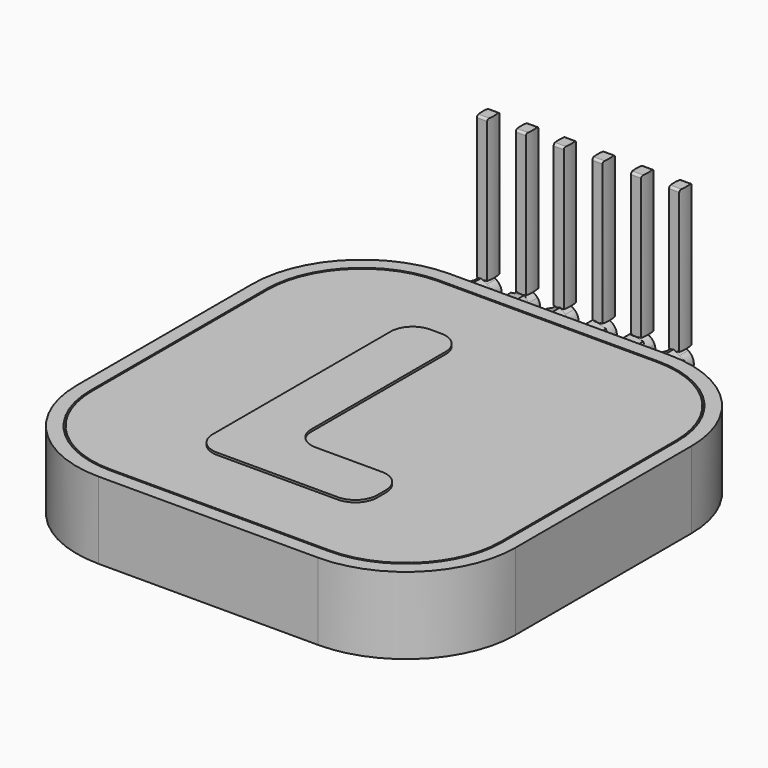
from build123d import *

# Parameters (mm, degrees)
F0_W      = 50.8
F0_H      = 50.8
F1_DEPTH  = 8.89
F2_R      = 12.7
F4_DEPTH  = 2.54
F6_DEPTH  = 0.254
F7_R      = 2.54
F9_DEPTH  = 2.54
F16_DEPTH = 1.27
F22_DEPTH = 1.143
F24_W     = 0.6395624951
F24_H     = 1.1226851493
F25_DEPTH = 2.032
F28_DEPTH = 16.51
F29_R     = 0.254
F29_2_R   = 0.254
F29_3_R   = 0.254
F29_4_R   = 0.254
F29_5_R   = 0.254
F29_6_R   = 0.254


with BuildPart() as f1:
    # F0 (on Top) → F1 (new body)
    with BuildSketch(Plane.XY):
        Rectangle(F0_W, F0_H)
    extrude(amount=F1_DEPTH)

    # F2
    f2_edges = [f1.edges().sort_by_distance(p)[0] for p in [
        (-25.4, -25.4, 4.445),
        (-25.4, 25.4, 4.445),
        (25.4, -25.4, 4.445),
        (25.4, 25.4, 4.445),
    ]]
    fillet(f2_edges, radius=F2_R)

    # F3 (on face) → F4 (cut)
    with BuildSketch(Plane.XY.offset(8.89)):
        with BuildLine():
            Line((12.7, 23.8125), (-12.7, 23.8125))
            ThreePointArc((-12.7, 23.8125), (-20.5577241059, 20.5577241059), (-23.8125, 12.7))
            Line((-23.8125, 12.7), (-23.8125, -12.7))
            ThreePointArc((-23.8125, -12.7), (-20.5577241059, -20.5577241059), (-12.7, -23.8125))
            Line((-12.7, -23.8125), (12.7, -23.8125))
            ThreePointArc((12.7, -23.8125), (20.5577241059, -20.5577241059), (23.8125, -12.7))
            Line((23.8125, -12.7), (23.8125, 12.7))
            ThreePointArc((23.8125, 12.7), (20.5577241059, 20.5577241059), (12.7, 23.8125))
        make_face()
        with BuildLine():
            ThreePointArc((-23.622, 12.7), (-20.4230202641, 20.4230202641), (-12.7, 23.622))
            Line((-12.7, 23.622), (12.7, 23.622))
            ThreePointArc((12.7, 23.622), (20.4230202641, 20.4230202641), (23.622, 12.7))
            Line((23.622, 12.7), (23.622, -12.7))
            ThreePointArc((23.622, -12.7), (20.4230202641, -20.4230202641), (12.7, -23.622))
            Line((12.7, -23.622), (-12.7, -23.622))
            ThreePointArc((-12.7, -23.622), (-20.4230202641, -20.4230202641), (-23.622, -12.7))
            Line((-23.622, -12.7), (-23.622, 12.7))
        make_face(mode=Mode.SUBTRACT)
    extrude(amount=-F4_DEPTH, mode=Mode.SUBTRACT)

    # F8 (on face) → F9 (join)
    with BuildSketch(Plane(origin=(0, 25.4, 0), x_dir=(-1, 0, 0), z_dir=(0, 1, 0))):
        Polygon((-11.0568755099, 4.7634748139), (-9.71071664, 5.6049096285), (-9.7663411302, 7.1914348146), (-11.1681244901, 7.9365251861), (-12.51428336, 7.0950903715), (-12.4586588698, 5.5085651854), align=None)
        Polygon((-8.2379135557, 6.1177124322), (-7.2515398431, 4.8738381824), (-5.6811262874, 5.1061257503), (-5.0970864443, 6.5822875678), (-6.0834601569, 7.8261618176), (-7.6538737126, 7.5938742497), align=None)
        Polygon((-3.7585345081, 5.9490583085), (-2.6432915637, 4.8192842492), (-1.1072570557, 5.2202259407), (-0.6864654919, 6.7509416915), (-1.8017084363, 7.8807157508), (-3.3377429443, 7.4797740593), align=None)
        Polygon((0.9898807473, 5.3495970672), (2.4725647275, 4.7823189476), (3.7051839802, 5.7827218804), (3.4551192527, 7.3504029328), (1.9724352725, 7.9176810524), (0.7398160198, 6.9172781196), align=None)
        Polygon((5.1002350336, 6.6026594054), (5.6650580532, 5.1190384274), (7.2323230196, 4.8663790219), (8.2347649664, 6.0973405946), (7.6699419468, 7.5809615726), (6.1026769804, 7.8336209781), align=None)
        Polygon((9.7376846715, 5.55625), (11.1125, 4.7625), (12.4873153285, 5.55625), (12.4873153285, 7.14375), (11.1125, 7.9375), (9.7376846715, 7.14375), align=None)
    extrude(amount=F9_DEPTH)

    # F10 (on face) + F11 (on face) + F12 (on face) + F13 (on face) + F14 (on face) + F15 (on face) → F16 (join)
    with BuildSketch(Plane(origin=(0, 27.94, 0), x_dir=(-1, 0, 0), z_dir=(0, 1, 0))):
        with BuildLine():
            ThreePointArc((-10.3837961672, 5.1841921635), (-9.9100129134, 5.6835602097), (-9.7376846715, 6.35))
            ThreePointArc((-9.7376846715, 6.35), (-9.7378957424, 6.3740898812), (-9.7385288902, 6.3981723656))
            ThreePointArc((-9.7385288902, 6.3981723656), (-9.9466921999, 7.0787038909), (-10.4672326118, 7.5639798949))
            ThreePointArc((-10.4672326118, 7.5639798949), (-11.160672127, 7.7239711182), (-11.841203955, 7.5158077601))
            ThreePointArc((-11.841203955, 7.5158077601), (-12.3264800098, 6.995267172), (-12.4864711147, 6.3018277735))
            ThreePointArc((-12.4864711147, 6.3018277735), (-12.2783078523, 5.6212961926), (-11.7577674393, 5.1360201323))
            ThreePointArc((-11.7577674393, 5.1360201323), (-11.064327974, 4.9760288782), (-10.3837961672, 5.1841921635))
        make_face()
    with BuildSketch(Plane(origin=(0, 27.94, 0), x_dir=(-1, 0, 0), z_dir=(0, 1, 0))):
        with BuildLine():
            ThreePointArc((-5.3891063156, 5.8442067861), (-5.317005198, 6.0925490781), (-5.2926846715, 6.35))
            ThreePointArc((-5.2926846715, 6.35), (-5.3692116904, 6.8022882406), (-5.5902732251, 7.2042245975))
            ThreePointArc((-5.5902732251, 7.2042245975), (-6.1617065984, 7.6283936101), (-6.8686669258, 7.710018035))
            ThreePointArc((-6.8686669258, 7.710018035), (-7.521724677, 7.4272267118), (-7.9458936227, 6.8557933698))
            ThreePointArc((-7.9458936227, 6.8557933698), (-8.0275180372, 6.1488330889), (-7.7447267098, 5.4957753205))
            ThreePointArc((-7.7447267098, 5.4957753205), (-7.1732933258, 5.0716063599), (-6.4663330164, 4.9899819736))
            ThreePointArc((-6.4663330164, 4.9899819736), (-5.8132752344, 5.2727733584), (-5.3891063156, 5.8442067861))
        make_face()
    with BuildSketch(Plane(origin=(0, 27.94, 0), x_dir=(-1, 0, 0), z_dir=(0, 1, 0))):
        with BuildLine():
            ThreePointArc((-0.8968613117, 5.9855836783), (-0.8600342984, 6.1661402726), (-0.8476846715, 6.35))
            ThreePointArc((-0.8476846715, 6.35), (-0.9506402332, 6.8720056716), (-1.2440868871, 7.3158286432))
            ThreePointArc((-1.2440868871, 7.3158286432), (-1.8580837513, 7.6756387084), (-2.5697256663, 7.6802449114))
            ThreePointArc((-2.5697256663, 7.6802449114), (-3.1883287054, 7.3284130515), (-3.5481387211, 6.7144162026))
            ThreePointArc((-3.5481387211, 6.7144162026), (-3.5527449083, 6.0027743219), (-3.20091304, 5.384171283))
            ThreePointArc((-3.20091304, 5.384171283), (-2.5869161364, 5.0243612607), (-1.8752742087, 5.0197551213))
            ThreePointArc((-1.8752742087, 5.0197551213), (-1.2566712925, 5.3715869506), (-0.8968613117, 5.9855836783))
        make_face()
    with BuildSketch(Plane(origin=(0, 27.94, 0), x_dir=(-1, 0, 0), z_dir=(0, 1, 0))):
        with BuildLine():
            ThreePointArc((3.0888744597, 5.2825204999), (3.4637135342, 5.7588095484), (3.5973153285, 6.35))
            ThreePointArc((3.5973153285, 6.35), (3.5930176889, 6.4586206789), (3.5801516387, 6.5665622666))
            ThreePointArc((3.5801516387, 6.5665622666), (3.2899796499, 7.2163742751), (2.7137773196, 7.6340419708))
            ThreePointArc((2.7137773196, 7.6340419708), (2.005937624, 7.7076516213), (1.3561256469, 7.4174795866))
            ThreePointArc((1.3561256469, 7.4174795866), (0.9384580083, 6.8412772648), (0.864848383, 6.1334375972))
            ThreePointArc((0.864848383, 6.1334375972), (1.1550204138, 5.4836256465), (1.7312227403, 5.0659580063))
            ThreePointArc((1.7312227403, 5.0659580063), (2.4390624755, 4.9923483946), (3.0888744597, 5.2825204999))
        make_face()
    with BuildSketch(Plane(origin=(0, 27.94, 0), x_dir=(-1, 0, 0), z_dir=(0, 1, 0))):
        with BuildLine():
            ThreePointArc((7.7335439008, 5.481859695), (7.9628244156, 5.8892920166), (8.0423153285, 6.35))
            ThreePointArc((8.0423153285, 6.35), (8.0196378169, 6.5986775256), (7.9523534108, 6.8391512039))
            ThreePointArc((7.9523534108, 6.8391512039), (7.5356401364, 7.416044038), (6.8863094498, 7.7072912776))
            ThreePointArc((6.8863094498, 7.7072912776), (6.1783489173, 7.6348534569), (5.601456017, 7.2181402041))
            ThreePointArc((5.601456017, 7.2181402041), (5.3102087279, 6.5688094837), (5.3826465346, 5.8608489396))
            ThreePointArc((5.3826465346, 5.8608489396), (5.7993597953, 5.2839560176), (6.448690528, 4.992708726))
            ThreePointArc((6.448690528, 4.992708726), (7.1566510114, 5.0651465159), (7.7335439008, 5.481859695))
        make_face()
    with BuildSketch(Plane(origin=(0, 27.94, 0), x_dir=(-1, 0, 0), z_dir=(0, 1, 0))):
        with BuildLine():
            ThreePointArc((11.7999077402, 5.1593750439), (12.3031250219, 5.6625923737), (12.4873153285, 6.35))
            ThreePointArc((12.4873153285, 6.35), (12.3031250219, 7.0374076263), (11.7999077402, 7.5406249561))
            ThreePointArc((11.7999077402, 7.5406249561), (11.1125000482, 7.7248153285), (10.4250923432, 7.5406250043))
            ThreePointArc((10.4250923432, 7.5406250043), (9.9218750021, 7.037407668), (9.7376846715, 6.35))
            ThreePointArc((9.7376846715, 6.35), (9.9218749991, 5.6625923373), (10.4250923326, 5.1593750018))
            ThreePointArc((10.4250923326, 5.1593750018), (11.112500042, 4.9751846715), (11.7999077402, 5.1593750439))
        make_face()
    extrude(amount=F16_DEPTH)

    # F17 (on face) + F18 (on face) + F19 (on face) + F20 (on face) + F21 (on face) → F22 (cut)
    with BuildSketch(Plane(origin=(0, 29.21, 0), x_dir=(-1, 0, 0), z_dir=(0, 1, 0))):
        with BuildLine():
            ThreePointArc((-10.7684358954, 7.6810661439), (-11.1034970117, 7.7247858501), (-11.4391019765, 7.6854580998))
            Line((-11.4391019765, 7.6854580998), (-11.4391019765, 5.6703155724))
            Line((-11.4391019765, 5.6703155724), (-10.7684358954, 5.6703155724))
            Line((-10.7684358954, 5.6703155724), (-10.7684358954, 7.6810661439))
        make_face()
    with BuildSketch(Plane(origin=(0, 29.21, 0), x_dir=(-1, 0, 0), z_dir=(0, 1, 0))):
        with BuildLine():
            ThreePointArc((-6.3427600812, 7.6859121126), (-6.6784230458, 7.7247719355), (-7.0134261623, 7.6805834351))
            Line((-7.0134261623, 7.6805834351), (-7.0134261623, 5.6686857715))
            Line((-7.0134261623, 5.6686857715), (-6.3427600812, 5.6686857715))
            Line((-6.3427600812, 5.6686857715), (-6.3427600812, 7.679436343))
            Line((-6.3427600812, 7.679436343), (-6.3427600812, 7.6859121126))
        make_face()
    with BuildSketch(Plane(origin=(0, 29.21, 0), x_dir=(-1, 0, 0), z_dir=(0, 1, 0))):
        with BuildLine():
            ThreePointArc((-1.8947532203, 7.6851776046), (-2.2303225282, 7.7247930737), (-2.5654193014, 7.6813615363))
            Line((-2.5654193014, 7.6813615363), (-2.5654193014, 5.690001417))
            Line((-2.5654193014, 5.690001417), (-1.8947532203, 5.690001417))
            Line((-1.8947532203, 5.690001417), (-1.8947532203, 7.6851776046))
        make_face()
    with BuildSketch(Plane(origin=(0, 29.21, 0), x_dir=(-1, 0, 0), z_dir=(0, 1, 0))):
        with BuildLine():
            ThreePointArc((2.5899198104, 7.6748093714), (2.2555866565, 7.7244171349), (1.9192537293, 7.6909544686))
            Line((1.9192537293, 7.6909544686), (1.9192537293, 5.7194768451))
            Line((1.9192537293, 5.7194768451), (2.5899198104, 5.7194768451))
            Line((2.5899198104, 5.7194768451), (2.5899198104, 7.6748093714))
        make_face()
    with BuildSketch(Plane(origin=(0, 29.21, 0), x_dir=(-1, 0, 0), z_dir=(0, 1, 0))):
        with BuildLine():
            ThreePointArc((6.9499148254, 7.6954958394), (6.6129310262, 7.7237319297), (6.2792487442, 7.6688548631))
            Line((6.2792487442, 7.6688548631), (6.2792487442, 5.7084094733))
            Line((6.2792487442, 5.7084094733), (6.9499148254, 5.7084094733))
            Line((6.9499148254, 5.7084094733), (6.9499148254, 7.6954958394))
        make_face()
        Polygon((10.784923099, 8.0197686466), (10.784923099, 7.7235520007), (10.784923099, 5.7084094733), (11.4555891801, 5.7084094733), (11.4555891801, 7.7191600448), (11.4555891801, 8.0197686466), align=None)
    extrude(amount=-F22_DEPTH, mode=Mode.SUBTRACT)


with BuildPart() as f6:
    # F5 (on face) → F6 (new body)
    with BuildSketch(Plane.XY.offset(8.89)):
        Polygon((-3.175, 15.4178), (-9.525, 15.4178), (-9.525, -15.4178), (9.525, -15.4178), (9.525, -9.0678), (-3.175, -9.0678), align=None)
    extrude(amount=F6_DEPTH)

    # F7
    f7_edges = [f6.edges().sort_by_distance(p)[0] for p in [
        (-9.525, -15.4178, 9.017),
        (9.525, -15.4178, 9.017),
        (9.525, -9.0678, 9.017),
        (-3.175, -9.0678, 9.017),
        (-3.175, 15.4178, 9.017),
        (-9.525, 15.4178, 9.017),
    ]]
    fillet(f7_edges, radius=F7_R)


with BuildPart() as f25:
    # F24 (on offset) → F25 (new body)
    with BuildSketch(Plane.XY.offset(5.7338155724)):
        with Locations((11.1026200466, 28.6440821365)):
            Rectangle(F24_W, F24_H)
    extrude(amount=F25_DEPTH)


with BuildPart() as f25b:
    # F24 (on offset) → F25, piece 2 (new body)
    with BuildSketch(Plane.XY.offset(5.7338155724)):
        with Locations((6.6755441949, 28.6440821365)):
            Rectangle(F24_W, F24_H)
    extrude(amount=F25_DEPTH)


with BuildPart() as f25c:
    # F24 (on offset) → F25, piece 3 (new body)
    with BuildSketch(Plane.XY.offset(5.7338155724)):
        with Locations((2.2284153383, 28.6440821365)):
            Rectangle(F24_W, F24_H)
    extrude(amount=F25_DEPTH)


with BuildPart() as f25d:
    # F24 (on offset) → F25, piece 4 (new body)
    with BuildSketch(Plane.XY.offset(5.7338155724)):
        with Locations((-2.2553561721, 28.6440821365)):
            Rectangle(F24_W, F24_H)
    extrude(amount=F25_DEPTH)


with BuildPart() as f25e:
    # F24 (on offset) → F25, piece 5 (new body)
    with BuildSketch(Plane.XY.offset(5.7338155724)):
        with Locations((-6.6138003021, 28.6440821365)):
            Rectangle(F24_W, F24_H)
    extrude(amount=F25_DEPTH)


with BuildPart() as f25f:
    # F24 (on offset) → F25, piece 6 (new body)
    with BuildSketch(Plane.XY.offset(5.7338155724)):
        with Locations((-11.1170834862, 28.6440821365)):
            Rectangle(F24_W, F24_H)
    extrude(amount=F25_DEPTH)


with BuildPart() as f28:
    # F27 (on offset) → F28 (new body)
    with BuildSketch(Plane.XY.offset(7.7658155724)):
        with BuildLine():
            ThreePointArc((10.5258245021, 29.8739075661), (10.4288651481, 28.9803827181), (10.5258245021, 28.0868578702))
            Line((10.5258245021, 28.0868578702), (11.6961849853, 28.0868578702))
            ThreePointArc((11.6961849853, 28.0868578702), (11.7931443394, 28.9803827181), (11.6961849853, 29.8739075661))
            Line((11.6961849853, 29.8739075661), (10.5258245021, 29.8739075661))
        make_face()
    extrude(amount=F28_DEPTH)

    # F29#6
    f29_6_edges = [f28.edges().sort_by_distance(p)[0] for p in [
        (11.111005, 29.873908, 24.275816),
        (11.111005, 28.086858, 24.275816),
    ]]
    fillet(f29_6_edges, radius=F29_6_R)


with BuildPart() as f28b:
    # F27 (on offset) → F28, piece 2 (new body)
    with BuildSketch(Plane.XY.offset(7.7658155724)):
        with BuildLine():
            ThreePointArc((6.1121954382, 29.8739075661), (6.0152360841, 28.9803827181), (6.1121954382, 28.0868578702))
            Line((6.1121954382, 28.0868578702), (7.2825559214, 28.0868578702))
            ThreePointArc((7.2825559214, 28.0868578702), (7.3795152754, 28.9803827181), (7.2825559214, 29.8739075661))
            Line((7.2825559214, 29.8739075661), (6.1121954382, 29.8739075661))
        make_face()
    extrude(amount=F28_DEPTH)

    # F29#5
    f29_5_edges = [f28b.edges().sort_by_distance(p)[0] for p in [
        (6.697376, 29.873908, 24.275816),
        (6.697376, 28.086858, 24.275816),
    ]]
    fillet(f29_5_edges, radius=F29_5_R)


with BuildPart() as f28c:
    # F27 (on offset) → F28, piece 3 (new body)
    with BuildSketch(Plane.XY.offset(7.7658155724)):
        with BuildLine():
            ThreePointArc((1.6438810885, 29.8739075661), (1.5469217345, 28.9803827181), (1.6438810885, 28.0868578702))
            Line((1.6438810885, 28.0868578702), (2.8142415717, 28.0868578702))
            ThreePointArc((2.8142415717, 28.0868578702), (2.9112009258, 28.9803827181), (2.8142415717, 29.8739075661))
            Line((2.8142415717, 29.8739075661), (1.6438810885, 29.8739075661))
        make_face()
    extrude(amount=F28_DEPTH)

    # F29#4
    f29_4_edges = [f28c.edges().sort_by_distance(p)[0] for p in [
        (2.229061, 28.086858, 24.275816),
        (2.229061, 29.873908, 24.275816),
    ]]
    fillet(f29_4_edges, radius=F29_4_R)


with BuildPart() as f28d:
    # F27 (on offset) → F28, piece 4 (new body)
    with BuildSketch(Plane.XY.offset(7.7658155724)):
        with BuildLine():
            ThreePointArc((-2.8380200933, 29.8739066347), (-2.9349794474, 28.9803817868), (-2.8380200933, 28.0868569389))
            Line((-2.8380200933, 28.0868569389), (-1.6676596101, 28.0868569389))
            ThreePointArc((-1.6676596101, 28.0868569389), (-1.5707002561, 28.9803817868), (-1.6676596101, 29.8739066347))
            Line((-1.6676596101, 29.8739066347), (-2.8380200933, 29.8739066347))
        make_face()
    extrude(amount=F28_DEPTH)

    # F29#3
    f29_3_edges = [f28d.edges().sort_by_distance(p)[0] for p in [
        (-2.25284, 28.086857, 24.275816),
        (-2.25284, 29.873907, 24.275816),
    ]]
    fillet(f29_3_edges, radius=F29_3_R)


with BuildPart() as f28e:
    # F27 (on offset) → F28, piece 5 (new body)
    with BuildSketch(Plane.XY.offset(7.7658155724)):
        with BuildLine():
            ThreePointArc((-7.2110661972, 29.8739066347), (-7.3080255512, 28.9803817868), (-7.2110661972, 28.0868569389))
            Line((-7.2110661972, 28.0868569389), (-6.040705714, 28.0868569389))
            ThreePointArc((-6.040705714, 28.0868569389), (-5.94374636, 28.9803817868), (-6.040705714, 29.8739066347))
            Line((-6.040705714, 29.8739066347), (-7.2110661972, 29.8739066347))
        make_face()
    extrude(amount=F28_DEPTH)

    # F29#2
    f29_2_edges = [f28e.edges().sort_by_distance(p)[0] for p in [
        (-6.625886, 29.873907, 24.275816),
        (-6.625886, 28.086857, 24.275816),
    ]]
    fillet(f29_2_edges, radius=F29_2_R)


with BuildPart() as f28f:
    # F27 (on offset) → F28, piece 6 (new body)
    with BuildSketch(Plane.XY.offset(7.7658155724)):
        with BuildLine():
            ThreePointArc((-11.7035027329, 29.8739066347), (-11.8004620869, 28.9803817868), (-11.7035027329, 28.0868569389))
            Line((-11.7035027329, 28.0868569389), (-10.5331422496, 28.0868569389))
            ThreePointArc((-10.5331422496, 28.0868569389), (-10.4361828956, 28.9803817868), (-10.5331422496, 29.8739066347))
            Line((-10.5331422496, 29.8739066347), (-11.7035027329, 29.8739066347))
        make_face()
    extrude(amount=F28_DEPTH)

    # F29
    f29_edges = [f28f.edges().sort_by_distance(p)[0] for p in [
        (-11.118322, 28.086857, 24.275816),
        (-11.118322, 29.873907, 24.275816),
    ]]
    fillet(f29_edges, radius=F29_R)


solid = Compound([f1.part, f6.part, f25.part, f25b.part, f25c.part, f25d.part, f25e.part, f25f.part, f28.part, f28b.part, f28c.part, f28d.part, f28e.part, f28f.part])
